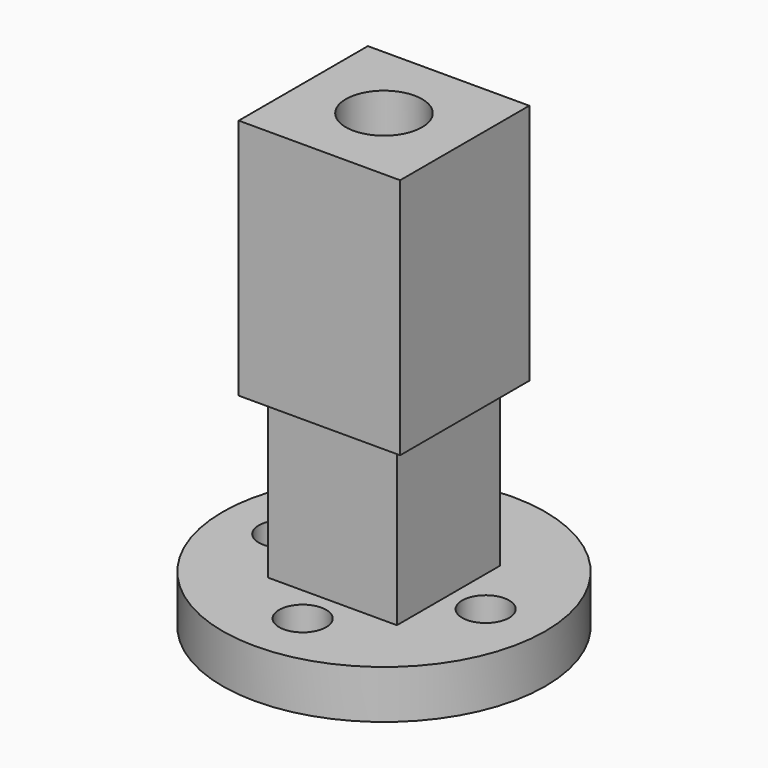
from build123d import *

# Parameters (mm, degrees)
F0_W      = 12.7
F0_H      = 12.7
F1_DEPTH  = 19.05
F2_W      = 10.16
F2_H      = 10.16
F2_R      = 3
F3_DEPTH  = 12.7
F4_R      = 12.7
F4_R_2    = 1.85
F4_W      = 10.16
F4_H      = 10.16
F4_R_3    = 4
F5_DEPTH  = 3.81
F3_FACE_R = 3
F6_DEPTH  = 127


with BuildPart() as f1:
    # F0 (on Top) → F1 (new body)
    with BuildSketch(Plane.XY):
        with Locations((-6.35, 6.35)):
            Rectangle(F0_W, F0_H)
    extrude(amount=F1_DEPTH)

    # F2 (on face) → F3 (join)
    with BuildSketch(Plane(origin=(0, 0, 0), x_dir=(1, 0, 0), z_dir=(0, 0, -1))):
        with Locations((-6.35, -6.35)):
            Rectangle(F2_W, F2_H)
        with Locations((-6.35, -6.35)):
            Circle(F2_R, mode=Mode.SUBTRACT)
    extrude(amount=F3_DEPTH)

    # F3_face (on face) → F6 (cut)
    with BuildSketch(Plane(origin=(-6.35, 6.35, -12.7), x_dir=(1, 0, 0), z_dir=(0, 0, -1))):
        Circle(F3_FACE_R)
    extrude(amount=-F6_DEPTH, mode=Mode.SUBTRACT)


with BuildPart() as f5:
    # F4 (on face) → F5 (new body)
    with BuildSketch(Plane(origin=(0, 0, -12.7), x_dir=(1, 0, 0), z_dir=(0, 0, -1))):
        with Locations((-6.35, -6.35)):
            Circle(F4_R)
        with Locations((-6.35, -14.35)):
            Circle(F4_R_2, mode=Mode.SUBTRACT)
        with Locations((-14.35, -6.35)):
            Circle(F4_R_2, mode=Mode.SUBTRACT)
        with Locations((-6.35, -6.35)):
            Rectangle(F4_W, F4_H, mode=Mode.SUBTRACT)
        with Locations((1.65, -6.35)):
            Circle(F4_R_2, mode=Mode.SUBTRACT)
        with Locations((-6.35, 1.65)):
            Circle(F4_R_2, mode=Mode.SUBTRACT)
        with Locations((-6.35, -6.35)):
            Rectangle(F4_W, F4_H)
        with Locations((-6.35, -6.35)):
            Circle(F4_R_3, mode=Mode.SUBTRACT)
    extrude(amount=F5_DEPTH)


solid = Compound([f1.part, f5.part])
